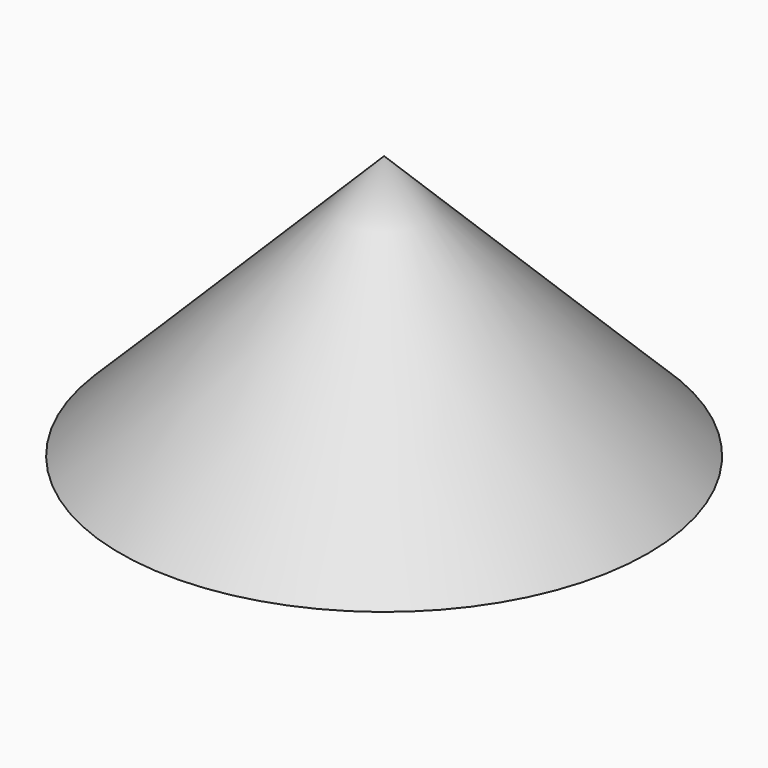
from build123d import *


with BuildPart() as f1:
    # F0 (on Front) → F1 (revolve)
    with BuildSketch(Plane.XZ):
        Polygon((53.881537, 0), (0, 53.881537), (0, 0), align=None)
    revolve(axis=Axis((0, 0, 26.940768), (0, 0, -1)))


with BuildPart() as f3:
    # F2 (on Top) → F3 (revolve)
    with BuildSketch(Plane.XY):
        Polygon((0, 25.4), (0, 0), (0, -25.4), (16.237638, -21.049138), (13.725667, -11.674333), (25.4, 0), (13.725667, 11.674333), (16.237638, 21.049138), align=None)
    revolve(axis=Axis((0, -12.7, 0), (0, -1, 0)))


with BuildPart() as f1_1:
    add(f1.part)

    # F4: cut F3
    add(f3.part, mode=Mode.SUBTRACT)


solid = f1_1.part
